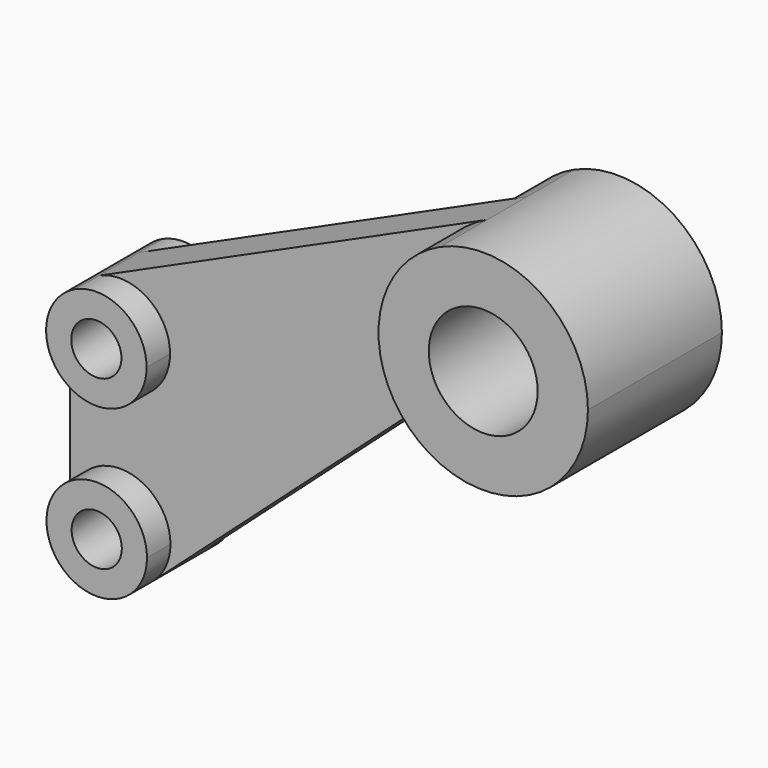
from build123d import *

# Parameters (mm, degrees)
F1_DEPTH = 5.9944
F0_R     = 13.0048
F2_DEPTH = 20.0025
F0_R_2   = 5.9944
F3_DEPTH = 13.0048


with BuildPart() as f1:
    # F0 (on Front) → F1 (new body, symmetric)
    with BuildSketch(Plane.XZ):
        with BuildLine():
            ThreePointArc((-79.938103, 28.535882), (-68.488104, 27.681584), (-62.995777, 17.598595))
            ThreePointArc((-62.995777, 17.598595), (-74.23434, 5.62137), (-86.901777, 16.075807))
            Line((-86.901777, 16.075807), (-86.901777, -22.406405))
            ThreePointArc((-86.901777, -22.406405), (-74.900277, -10.404905), (-62.898777, -22.406405))
            ThreePointArc((-62.898777, -22.406405), (-63.941977, -27.300448), (-66.890221, -31.343686))
            Line((-66.890221, -31.343686), (-4.163324, 24.875419))
            ThreePointArc((-4.163324, 24.875419), (2.722442, 27.884357), (10.046576, 26.203719))
            ThreePointArc((10.046576, 26.203719), (-1.965359, 49.095809), (12.701229, 70.384903))
            Line((12.701229, 70.384903), (-79.938103, 28.535882))
        make_face()
    extrude(amount=F1_DEPTH, both=True)

    # F0 (on Front) → F2 (join, symmetric)
    with BuildSketch(Plane.XZ):
        with BuildLine():
            ThreePointArc((48.002223, 47.595995), (36.558423, 68.604889), (12.701229, 70.384903))
            ThreePointArc((12.701229, 70.384903), (-1.965359, 49.095809), (10.046576, 26.203719))
            ThreePointArc((10.046576, 26.203719), (35.273948, 25.811479), (48.002223, 47.595995))
        make_face()
        with Locations((22.995923, 47.595995)):
            Circle(F0_R, mode=Mode.SUBTRACT)
    extrude(amount=F2_DEPTH, both=True)

    # F0 (on Front) → F3 (join, symmetric)
    with BuildSketch(Plane.XZ):
        with BuildLine():
            ThreePointArc((-86.901777, 16.075807), (-74.23434, 5.62137), (-62.995777, 17.598595))
            ThreePointArc((-62.995777, 17.598595), (-68.488104, 27.681584), (-79.938103, 28.535882))
            ThreePointArc((-79.938103, 28.535882), (-85.473661, 23.453626), (-86.901777, 16.075807))
        make_face()
        with Locations((-74.997277, 17.598595)):
            Circle(F0_R_2, mode=Mode.SUBTRACT)
        with BuildLine():
            ThreePointArc((-62.898777, -22.406405), (-74.900277, -10.404905), (-86.901777, -22.406405))
            ThreePointArc((-86.901777, -22.406405), (-79.79432, -33.364705), (-66.890221, -31.343686))
            ThreePointArc((-66.890221, -31.343686), (-63.941977, -27.300448), (-62.898777, -22.406405))
        make_face()
        with Locations((-74.900277, -22.406405)):
            Circle(F0_R_2, mode=Mode.SUBTRACT)
    extrude(amount=F3_DEPTH, both=True)


solid = f1.part
